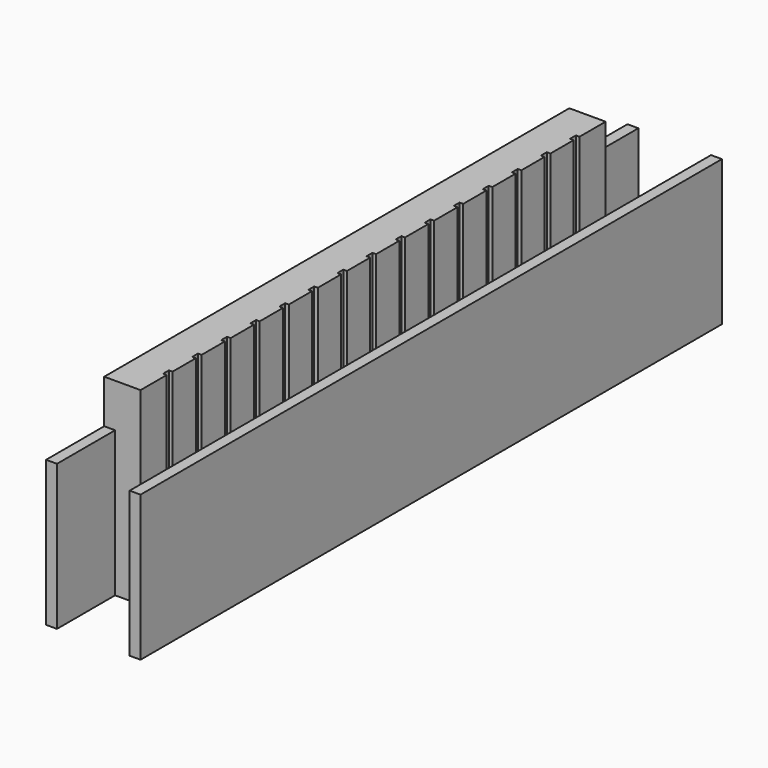
from build123d import *

# Parameters (mm, degrees)
BOX059_W         = 0.3
BOX059_H         = 20
BOX059_DEPTH     = 4
BOX061_W         = 0.1
BOX061_H         = 0.2
BOX061_DEPTH     = 3
ARRAY017_Y_COUNT = 15
ARRAY017_Y_PITCH = 1
BOX060_W         = 1
BOX060_H         = 16
BOX060_DEPTH     = 5.2


with BuildPart() as cube:
    # Box059 → Box059 (new body)
    with BuildSketch(Plane(origin=(1, -10, 0.2), x_dir=(1, 0, 0), z_dir=(0, 0, 1))):
        with Locations((0.15, 10)):
            Rectangle(BOX059_W, BOX059_H)
    extrude(amount=BOX059_DEPTH)


with BuildPart() as clone030:
    # Clone030 base: copy of Cube
    add(cube.part)


with BuildPart() as clone030_1:
    # Clone030 placement: moved
    add(clone030.part.moved(Location((-2.3, 0, 0))))


with BuildPart() as array017:
    # Box061 → Box061 (new body)
    with BuildSketch(Plane(origin=(-0.4, -7.1, 2.4), x_dir=(1, 0, 0), z_dir=(0, 0, 1))):
        with Locations((0.05, 0.1)):
            Rectangle(BOX061_W, BOX061_H)
    extrude(amount=BOX061_DEPTH)

    # Array017 Y: Array017 ×15


with BuildPart() as array017_1:
    add(array017.part)
    with Locations(*[(0, i * ARRAY017_Y_PITCH, 0) for i in range(1, ARRAY017_Y_COUNT)]):
        add(array017.part)


with BuildPart() as cut012:
    # Box060 → Box060 (new body)
    with BuildSketch(Plane(origin=(-1.3, -8, 0.2), x_dir=(1, 0, 0), z_dir=(0, 0, 1))):
        with Locations((0.5, 8)):
            Rectangle(BOX060_W, BOX060_H)
    extrude(amount=BOX060_DEPTH)

    # Cut012: cut Array017
    add(array017_1.part, mode=Mode.SUBTRACT)


with BuildPart() as holder:
    # Fusion045 base: copy of Cube
    add(cube.part)

    # Fusion045: union Clone030, Cut012
    add(clone030_1.part)
    add(cut012.part)


solid = holder.part
